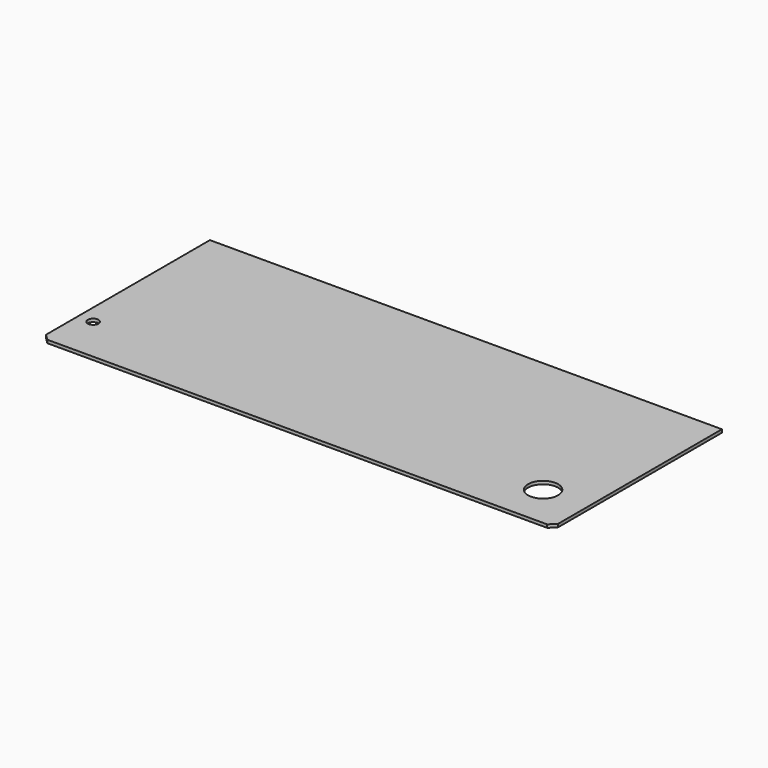
from build123d import *

# Parameters (mm, degrees)
F0_W     = 215.9
F0_H     = 88.9
F1_DEPTH = 1.31064
F2_SIZE  = 2.54
F3_SIZE  = 2.54
F5_D     = 4.4958
F6_D     = 12.7


with BuildPart() as f1:
    # F0 (on Top) → F1 (new body)
    with BuildSketch(Plane.XY):
        with Locations((2.709784, -12.140669)):
            Rectangle(F0_W, F0_H)
    extrude(amount=-F1_DEPTH)

    # F2
    f2_edges = [f1.edges().sort_by_distance(p)[0] for p in [
        (-105.240216, -56.590669, -0.65532),
    ]]
    chamfer(f2_edges, length=F2_SIZE)

    # F3
    f3_edges = [f1.edges().sort_by_distance(p)[0] for p in [
        (110.659784, -56.590669, -0.65532),
    ]]
    chamfer(f3_edges, length=F3_SIZE)

    # F5 (through all)
    with Locations(Plane.XY):
        with Locations((-98.890216, -37.152206)):
            Hole(F5_D / 2)

    # F6 (through all)
    with Locations(Plane.XY):
        with Locations((91.607164, -38.151322)):
            Hole(F6_D / 2)


solid = f1.part
